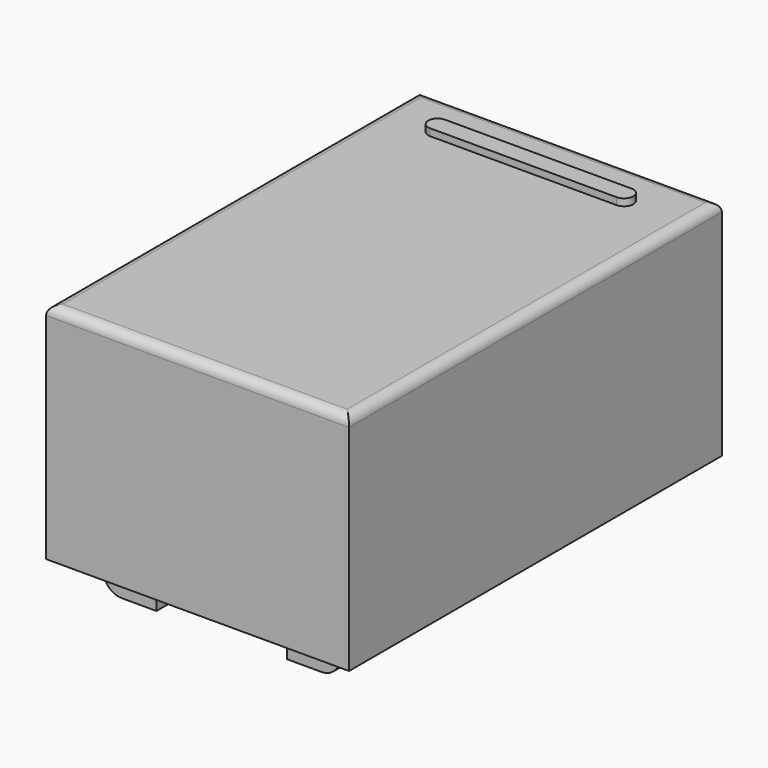
from build123d import *

# Parameters (mm, degrees)
PAD010_DEPTH = 0.25
PAD012_DEPTH = 0.25
PAD007_DEPTH = 3.5
PAD013_DEPTH = 0.25
PAD011_DEPTH = 0.25
PAD014_DEPTH = 0.2
SKETCH_W     = 10
SKETCH_H     = 6.5
PAD_DEPTH    = 4.8
FILLET_R     = 0.2


with BuildPart() as pad010:
    # Sketch011 → Pad010 (new body, symmetric)
    with BuildSketch(Plane.XZ.offset(1.59)):
        with BuildLine():
            Line((-2.54, 1.8), (-2.29, 1.8))
            Line((-2.29, 1.8), (-2.29, 0.4))
            ThreePointArc((-2.29, 0.4), (-2.246066, 0.293934), (-2.14, 0.25))
            Line((-1.4, 0.25), (-2.14, 0.25))
            Line((-1.4, 0), (-1.4, 0.25))
            Line((-1.4, 0), (-2.14, 0))
            ThreePointArc((-2.54, 0.4), (-2.422843, 0.117157), (-2.14, 0))
            Line((-2.54, 1.8), (-2.54, 0.4))
        make_face()
        with BuildLine():
            ThreePointArc((2.14, 0.25), (2.246066, 0.293934), (2.29, 0.4))
            Line((2.29, 1.8), (2.29, 0.4))
            Line((2.54, 1.8), (2.29, 1.8))
            Line((2.54, 0.4), (2.54, 1.8))
            ThreePointArc((2.139994, 0), (2.42284, 0.117155), (2.54, 0.4))
            Line((1.4, 0), (2.139994, 0))
            Line((1.4, 0.25), (1.4, 0))
            Line((2.14, 0.25), (1.4, 0.25))
        make_face()
    extrude(amount=PAD010_DEPTH, both=True)


with BuildPart() as pad012:
    # Sketch013 → Pad012 (new body, symmetric)
    with BuildSketch(Plane.XZ.offset(3.79)):
        with BuildLine():
            Line((-2.54, 1.8), (-2.29, 1.8))
            Line((-2.29, 1.8), (-2.29, 0.4))
            ThreePointArc((-2.29, 0.4), (-2.246066, 0.293934), (-2.14, 0.25))
            Line((-1.4, 0.25), (-2.14, 0.25))
            Line((-1.4, 0), (-1.4, 0.25))
            Line((-1.4, 0), (-2.14, 0))
            ThreePointArc((-2.54, 0.4), (-2.422843, 0.117157), (-2.14, 0))
            Line((-2.54, 1.8), (-2.54, 0.4))
        make_face()
        with BuildLine():
            ThreePointArc((2.14, 0.25), (2.246066, 0.293934), (2.29, 0.4))
            Line((2.29, 1.8), (2.29, 0.4))
            Line((2.54, 1.8), (2.29, 1.8))
            Line((2.54, 0.4), (2.54, 1.8))
            ThreePointArc((2.139994, 0), (2.42284, 0.117155), (2.54, 0.4))
            Line((1.4, 0), (2.139994, 0))
            Line((1.4, 0.25), (1.4, 0))
            Line((2.14, 0.25), (1.4, 0.25))
        make_face()
    extrude(amount=PAD012_DEPTH, both=True)


with BuildPart() as pad007:
    # Sketch009 → Pad007 (new body, symmetric)
    with BuildSketch(Plane.XZ):
        Polygon((-1.25, 0.25), (1.25, 0.25), (2.25, 1.05), (-2.25, 1.05), align=None)
    extrude(amount=PAD007_DEPTH, both=True)


with BuildPart() as pad013:
    # Sketch014 → Pad013 (new body, symmetric)
    with BuildSketch(Plane.XZ.offset(-0.61)):
        with BuildLine():
            Line((-2.54, 1.8), (-2.29, 1.8))
            Line((-2.29, 1.8), (-2.29, 0.4))
            ThreePointArc((-2.29, 0.4), (-2.246066, 0.293934), (-2.14, 0.25))
            Line((-1.4, 0.25), (-2.14, 0.25))
            Line((-1.4, 0), (-1.4, 0.25))
            Line((-1.4, 0), (-2.14, 0))
            ThreePointArc((-2.54, 0.4), (-2.422843, 0.117157), (-2.14, 0))
            Line((-2.54, 1.8), (-2.54, 0.4))
        make_face()
        with BuildLine():
            ThreePointArc((2.14, 0.25), (2.246066, 0.293934), (2.29, 0.4))
            Line((2.29, 1.8), (2.29, 0.4))
            Line((2.54, 1.8), (2.29, 1.8))
            Line((2.54, 0.4), (2.54, 1.8))
            ThreePointArc((2.139994, 0), (2.42284, 0.117155), (2.54, 0.4))
            Line((1.4, 0), (2.139994, 0))
            Line((1.4, 0.25), (1.4, 0))
            Line((2.14, 0.25), (1.4, 0.25))
        make_face()
    extrude(amount=PAD013_DEPTH, both=True)


with BuildPart() as pad011:
    # Sketch012 → Pad011 (new body, symmetric)
    with BuildSketch(Plane.XZ.offset(-3.81)):
        with BuildLine():
            Line((-2.54, 1.8), (-2.29, 1.8))
            Line((-2.29, 1.8), (-2.29, 0.4))
            ThreePointArc((-2.29, 0.4), (-2.246066, 0.293934), (-2.14, 0.25))
            Line((-1.4, 0.25), (-2.14, 0.25))
            Line((-1.4, 0), (-1.4, 0.25))
            Line((-1.4, 0), (-2.14, 0))
            ThreePointArc((-2.54, 0.4), (-2.422843, 0.117157), (-2.14, 0))
            Line((-2.54, 1.8), (-2.54, 0.4))
        make_face()
        with BuildLine():
            ThreePointArc((2.14, 0.25), (2.246066, 0.293934), (2.29, 0.4))
            Line((2.29, 1.8), (2.29, 0.4))
            Line((2.54, 1.8), (2.29, 1.8))
            Line((2.54, 0.4), (2.54, 1.8))
            ThreePointArc((2.139994, 0), (2.42284, 0.117155), (2.54, 0.4))
            Line((1.4, 0), (2.139994, 0))
            Line((1.4, 0.25), (1.4, 0))
            Line((2.14, 0.25), (1.4, 0.25))
        make_face()
    extrude(amount=PAD011_DEPTH, both=True)


with BuildPart() as pad014:
    # Sketch001 → Pad014 (new body)
    with BuildSketch(Plane(origin=(0, 0, 5.6), x_dir=(0, -1, 0), z_dir=(0, 0, 1))):
        with BuildLine():
            Line((-3.8, -1.8), (-3.8, 2.2))
            ThreePointArc((-3.8, 2.2), (-4, 2.4), (-4.2, 2.2))
            Line((-4.2, 2.2), (-4.2, -1.8))
            ThreePointArc((-4.2, -1.8), (-4, -2), (-3.8, -1.8))
        make_face()
    extrude(amount=PAD014_DEPTH)


with BuildPart() as obj1:
    # Sketch → Pad (new body)
    with BuildSketch(Plane(origin=(0, 0, 0.85), x_dir=(0, -1, 0), z_dir=(0, 0, 1))):
        with Locations((0, 0.25)):
            Rectangle(SKETCH_W, SKETCH_H)
    extrude(amount=PAD_DEPTH)

    # Fillet
    fillet_edges = [obj1.edges().sort_by_distance(p)[0] for p in [
        (-3, 0, 5.65),
        (0.25, -5, 5.65),
        (3.5, 0, 5.65),
        (0.25, 5, 5.65),
    ]]
    fillet(fillet_edges, radius=FILLET_R)

    add(pad010.part)
    add(pad012.part)
    add(pad007.part)
    add(pad013.part)
    add(pad011.part)
    add(pad014.part)


solid = obj1.part
